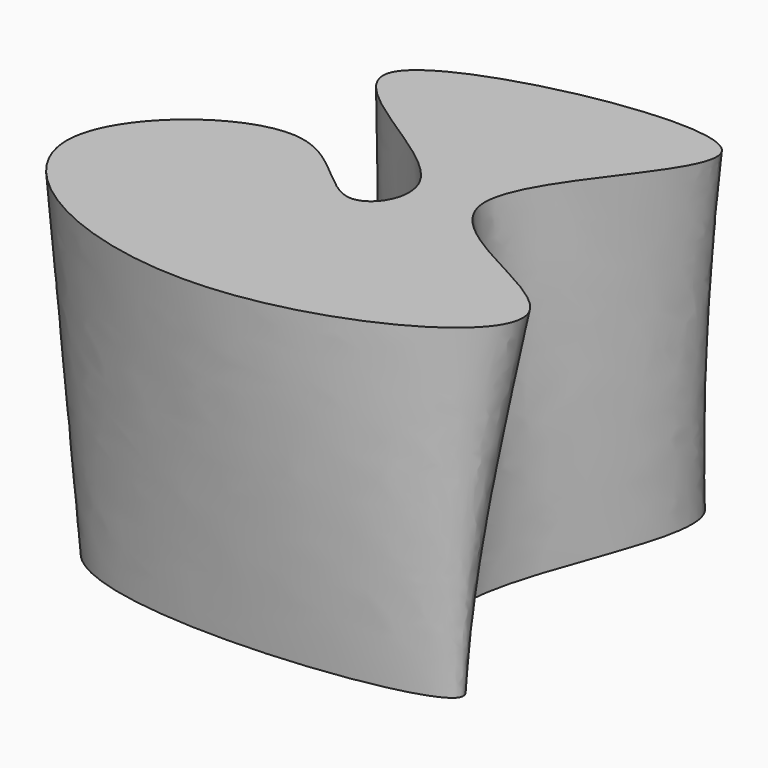
from build123d import *


with BuildPart() as f3:
    # F1 (on Top) → F3 section 0
    with BuildSketch(Plane.XY):
        with BuildLine():
            add(Edge.make_bspline(
                [(0, 0), (-5.5033842843, 14.998671458), (-84.5553502144, 37.4297059647), (79.5879592591, 96.3244130536), (-9.7614008346, -25.9336608199), (96.2878317371, -51.1861365047), (-109.5795637751, -72.6034687288), (-34.6013834598, 18.6449858689), (-18.8074194404, -36.5724834496), (3.8098605759, -10.3832195111), (0, 0)],
                knots=[0, 0, 0, 0, 0.1239871244, 0.2704815464, 0.4223006578, 0.5272589881, 0.7053347114, 0.8222087921, 0.9141666959, 1, 1, 1, 1], degree=3))
        make_face()
    # F2 (on offset) → F3 section 1
    with BuildSketch(Plane.XY.offset(100)):
        with BuildLine():
            add(Edge.make_bspline(
                [(0, 0), (-7.2638597278, 13.9083483194), (-90.0359208139, 42.0789810997), (95.2969585483, 79.8251468495), (-17.978785202, -9.2859901498), (99.3317471519, -32.2441686669), (-11.8334191283, -92.2263918512), (-104.97133168, -39.7566298497), (-33.4555084008, 17.2157541471), (-8.7073031, -27.712703964), (4.1361921344, -7.9197015192), (0, 0)],
                knots=[0, 0, 0, 0, 0.1107634126, 0.2493120672, 0.3667825809, 0.4779854037, 0.6104172169, 0.7420410579, 0.850875815, 0.9369290194, 1, 1, 1, 1], degree=3))
        make_face()
    loft()


solid = f3.part
